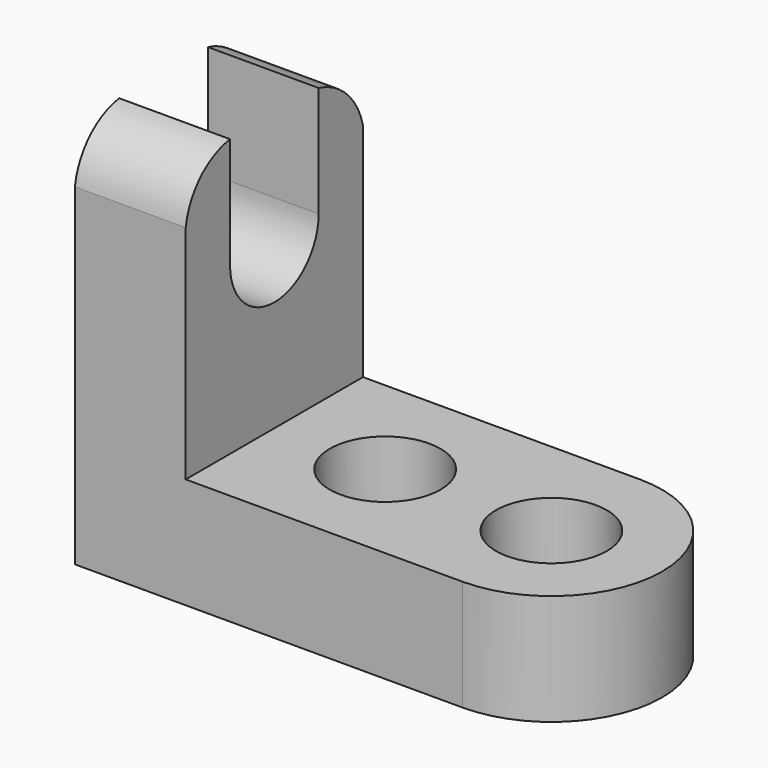
from build123d import *

# Parameters (mm, degrees)
F0_W      = 44.45
F0_H      = 12.7
F1_DEPTH  = 25.4
F3_DEPTH  = 12.7
F4_W      = 12.7
F4_H      = 25.4
F5_DEPTH  = 31.75
F7_DEPTH  = 25.4
F8_W      = 12.7
F8_H      = 12.7
F9_DEPTH  = 25.4
F10_R     = 6.35
F11_DEPTH = 25.4


with BuildPart() as f1:
    # F0 (on Front) → F1 (new body)
    with BuildSketch(Plane.XZ):
        with Locations((-22.225, 6.35)):
            Rectangle(F0_W, F0_H)
    extrude(amount=F1_DEPTH)

    # F2 (on face) → F3 (join)
    with BuildSketch(Plane.XY.offset(12.7)):
        with BuildLine():
            Line((0, 0), (0, -25.4))
            ThreePointArc((0, -25.4), (12.7, -12.7), (0, 0))
        make_face()
    extrude(amount=-F3_DEPTH)

    # F4 (on face) → F5 (join)
    with BuildSketch(Plane.XY.offset(12.7)):
        with Locations((-38.1, -12.7)):
            Rectangle(F4_W, F4_H)
    extrude(amount=F5_DEPTH)

    # F6 (on face) → F7 (cut)
    with BuildSketch(Plane.YZ.offset(-31.75)):
        with BuildLine():
            ThreePointArc((-25.4, 38.1), (-23.289181, 42.339181), (-19.05, 44.45))
            Line((-19.05, 44.45), (-25.4, 44.45))
            Line((-25.4, 44.45), (-25.4, 38.1))
        make_face()
        with BuildLine():
            Line((0, 44.45), (-6.35, 44.45))
            ThreePointArc((-6.35, 44.45), (-2.284975, 42.165025), (0, 38.1))
            Line((0, 38.1), (0, 44.45))
        make_face()
    extrude(amount=-F7_DEPTH, mode=Mode.SUBTRACT)

    # F8 (on face) → F9 (cut)
    with BuildSketch(Plane.YZ.offset(-31.75)):
        with Locations((-12.7, 38.1)):
            Rectangle(F8_W, F8_H)
        with BuildLine():
            Line((-6.35, 31.75), (-19.05, 31.75))
            ThreePointArc((-19.05, 31.75), (-12.7, 25.4), (-6.35, 31.75))
        make_face()
    extrude(amount=-F9_DEPTH, mode=Mode.SUBTRACT)

    # F10 (on face) → F11 (cut)
    with BuildSketch(Plane.XY.offset(12.7)):
        with Locations((0, -12.7)):
            Circle(F10_R)
        with Locations((-19.05, -12.7)):
            Circle(F10_R)
    extrude(amount=-F11_DEPTH, mode=Mode.SUBTRACT)


solid = f1.part
